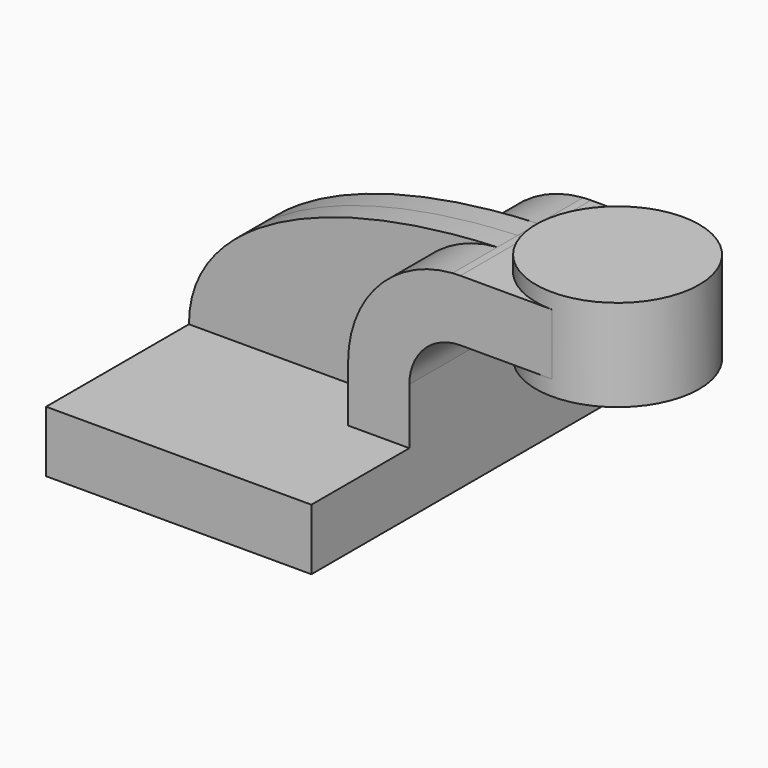
from build123d import *

# Parameters (mm, degrees)
F1_DEPTH = 63.5
F0_W     = 25.4
F0_H     = 19.05
F2_DEPTH = 25.4
F3_DEPTH = 7.9375


with BuildPart() as f1:
    # F0 (on Front) → F1 (new body, symmetric)
    with BuildSketch(Plane.XZ):
        Polygon((41.275, -9.525), (41.275, 9.525), (22.225, 9.525), (-41.275, 9.525), (-41.275, -9.525), align=None)
    extrude(amount=F1_DEPTH, both=True)

    # F0 (on Front) → F2 (join, symmetric)
    with BuildSketch(Plane.XZ):
        with BuildLine():
            Line((22.225, 9.525), (41.275, 9.525))
            Line((41.275, 9.525), (41.275, 27.0002))
            ThreePointArc((41.275, 27.0002), (45.9246798487, 38.2255201513), (57.15, 42.8752))
            Line((57.15, 42.8752), (60.325, 42.8752))
            Line((60.325, 42.8752), (60.325, 61.9252))
            Line((60.325, 61.9252), (57.15, 61.9252))
            add(Edge.make_bspline(
                [(54.6808253359, 61.8378061387), (55.500532419, 61.870850227), (56.3236165266, 61.8999908241), (57.15, 61.9252)],
                knots=[109.8921913534, 109.8921913534, 109.8921913534, 109.8921913534, 111.5045361635, 111.5045361635, 111.5045361635, 111.5045361635], degree=3))
            ThreePointArc((54.6808253359, 61.8378061387), (31.5962179889, 50.806918588), (22.225, 27.0002))
            Line((22.225, 27.0002), (22.225, 9.525))
        make_face()
        with Locations((73.025, 52.4002)):
            Rectangle(F0_W, F0_H)
    extrude(amount=F2_DEPTH, both=True)

    # F0 (on Front) → F3 (join, symmetric)
    with BuildSketch(Plane.XZ):
        with BuildLine():
            Line((-41.275, 9.525), (22.225, 9.525))
            Line((22.225, 9.525), (22.225, 27.0002))
            ThreePointArc((22.225, 27.0002), (31.5962179889, 50.806918588), (54.6808253359, 61.8378061387))
            add(Edge.make_bspline(
                [(-41.275, 9.525), (-41.3688876605, 39.2003932287), (-1.1877500898, 59.5856282852), (54.6808253359, 61.8378061387)],
                knots=[0, 0, 0, 0, 109.8921913534, 109.8921913534, 109.8921913534, 109.8921913534], degree=3))
        make_face()
    extrude(amount=F3_DEPTH, both=True)

    # F0 (on Front) → F4 (revolve)
    with BuildSketch(Plane.XZ):
        Polygon((85.725, 61.9252), (85.725, 42.8752), (85.725, 38.1), (111.125, 38.1), (111.125, 66.675), (85.725, 66.675), align=None)
    revolve(axis=Axis((85.725, 0, 52.3875), (0, 0, -1)))


solid = f1.part
